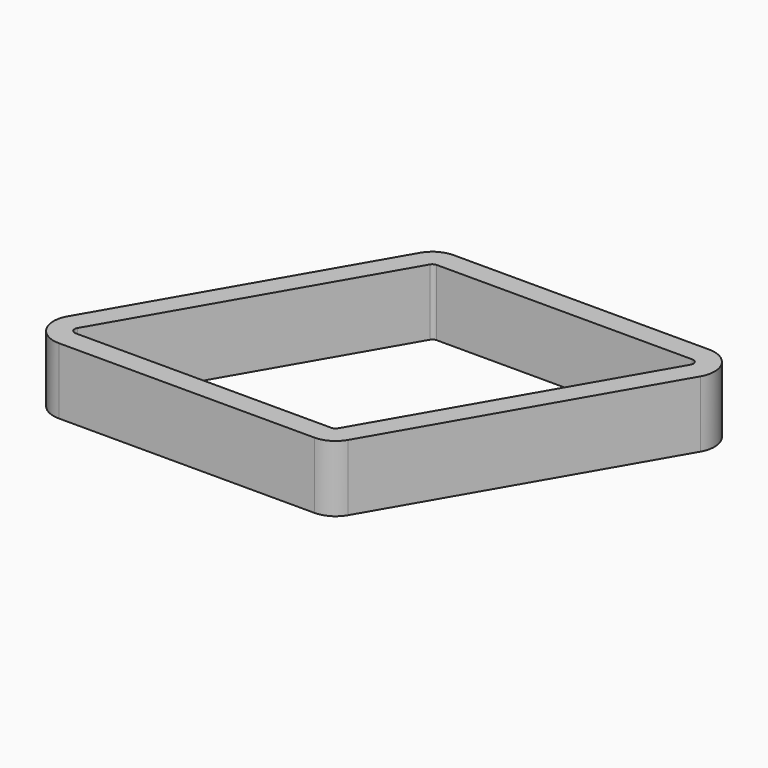
from build123d import *

# Parameters (mm, degrees)
F1_DEPTH = 5
F2_R     = 2
F3_T     = -1.6


with BuildPart() as f1:
    # F0 (on Top) → F1 (new body)
    with BuildSketch(Plane.XY):
        Polygon((9.814955, 21.2), (-3.637307, -2.1), (20.264994, -2.1), (33.717256, 21.2), align=None)
        Polygon((19.052559, 0), (0, 0), (11.02739, 19.1), (30.079949, 19.1), align=None, mode=Mode.SUBTRACT)
        Polygon((11.02739, 19.1), (0, 0), (19.052559, 0), (30.079949, 19.1), align=None)
    extrude(amount=F1_DEPTH)

    # F2
    f2_edges = [f1.edges().sort_by_distance(p)[0] for p in [
        (-3.637307, -2.1, 2.5),
        (20.264994, -2.1, 2.5),
        (33.717256, 21.2, 2.5),
        (9.814955, 21.2, 2.5),
    ]]
    fillet(f2_edges, radius=F2_R)

    # F3
    f3_openings = [f1.faces().sort_by_distance(p)[0] for p in [
        (15.039975, 9.55, 5),
        (15.039975, 9.55, 0),
    ]]
    offset(amount=F3_T, openings=f3_openings)


solid = f1.part
